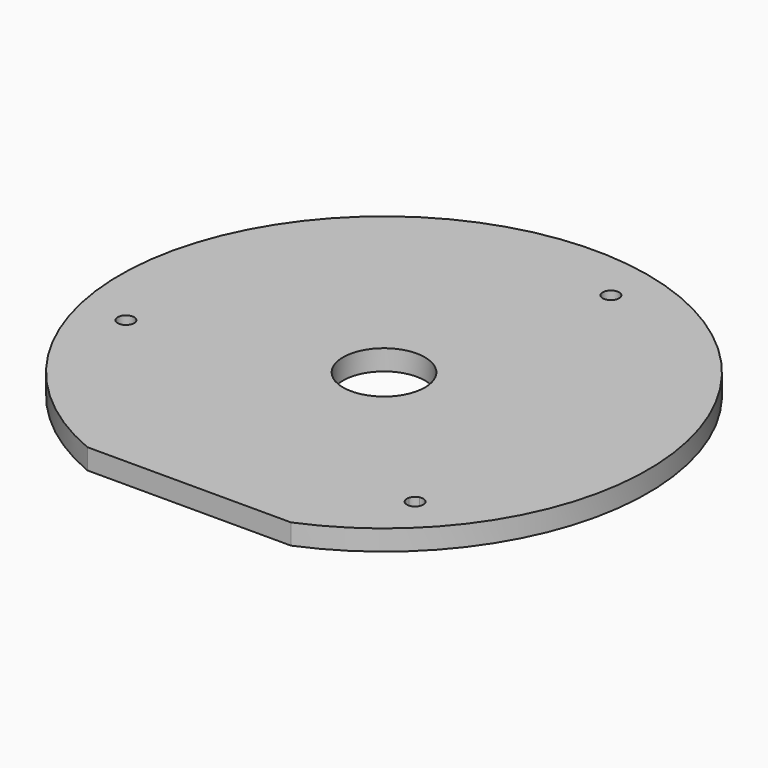
from build123d import *

# Parameters (mm, degrees)
F0_R     = 12.7
F1_DEPTH = 6.35


with BuildPart() as f1:
    # F0 (on Top) → F1 (new body)
    with BuildSketch(Plane.XY):
        with BuildLine():
            ThreePointArc((31.622745, -75.565), (0, 81.915), (-31.622745, -75.565))
            Line((-31.622745, -75.565), (31.622745, -75.565))
        make_face()
        with BuildLine():
            ThreePointArc((50.820423, -48.280423), (47.948886, -50.798693), (45.826971, -47.623022))
            Line((45.826971, -47.623022), (-63.498832, -18.329262))
            ThreePointArc((-63.498832, -18.329262), (-68.405735, -18.329262), (-64.156233, -15.87581))
            Line((-64.156233, -15.87581), (15.87581, 64.156233))
            ThreePointArc((15.87581, 64.156233), (16.699845, 68.298938), (20.211861, 65.952284))
            ThreePointArc((20.211861, 65.952284), (19.686979, 64.40603), (18.329262, 63.498832))
            Line((18.329262, 63.498832), (47.623022, -45.826971))
            ThreePointArc((47.623022, -45.826971), (49.826677, -46.265305), (50.820423, -48.280423))
        make_face(mode=Mode.SUBTRACT)
        with BuildLine():
            Line((-63.498832, -18.329262), (45.826971, -47.623022))
            ThreePointArc((45.826971, -47.623022), (46.484371, -46.484371), (47.623022, -45.826971))
            Line((47.623022, -45.826971), (18.329262, 63.498832))
            ThreePointArc((18.329262, 63.498832), (17.014461, 63.498832), (15.87581, 64.156233))
            Line((15.87581, 64.156233), (-64.156233, -15.87581))
            ThreePointArc((-64.156233, -15.87581), (-63.60563, -16.699845), (-63.412284, -17.671861))
            ThreePointArc((-63.412284, -17.671861), (-63.434014, -18.003398), (-63.498832, -18.329262))
        make_face()
        Circle(F0_R, mode=Mode.SUBTRACT)
    extrude(amount=F1_DEPTH)


solid = f1.part
